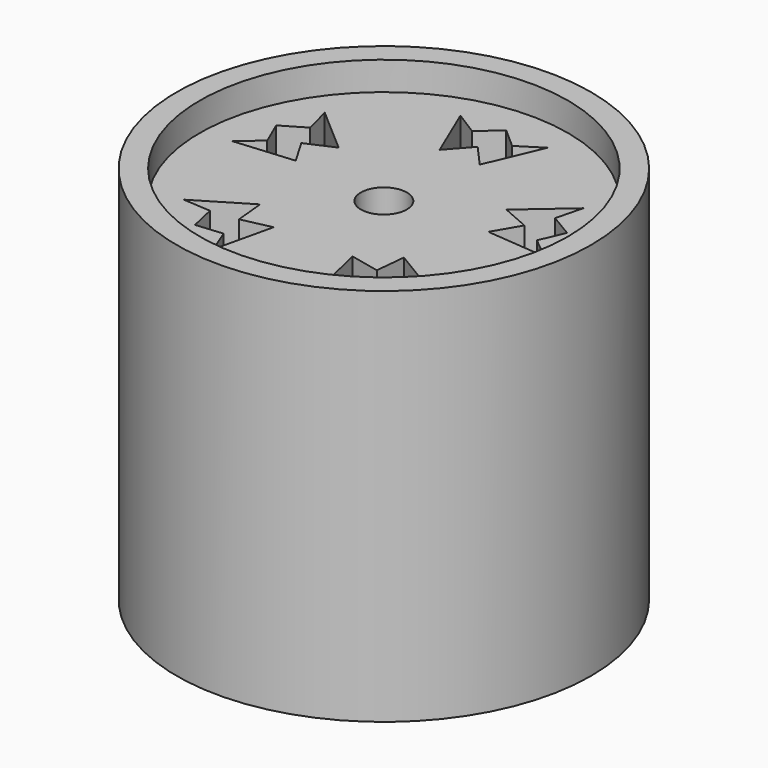
from build123d import *

# Parameters (mm, degrees)
F0_R     = 2
F0_R_2   = 0.25
F1_DEPTH = 1.75
F0_R_3   = 2.25
F2_DEPTH = 2.06


with BuildPart() as f1:
    # F0 (on Top) → F1 (new body, symmetric)
    with BuildSketch(Plane.XY):
        Circle(F0_R)
        Polygon((-0.976408, -1.34391), (-1.039955, -1.060915), (-1.340776, -1.04138), (-0.781074, -0.704595), (-0.748715, -1.030518), (-0.428745, -0.960577), (-0.576089, -1.596958), (-0.687626, -1.316897), align=None, mode=Mode.SUBTRACT)
        Polygon((0.976408, -1.34391), (0.687626, -1.316897), (0.576089, -1.596958), (0.428745, -0.960577), (0.748715, -1.030518), (0.781074, -0.704595), (1.340776, -1.04138), (1.039955, -1.060915), align=None, mode=Mode.SUBTRACT)
        Polygon((-1.579861, 0.513328), (-1.330354, 0.661215), (-1.404734, 0.953349), (-0.911475, 0.525113), (-1.211447, 0.393623), (-1.046053, 0.110926), (-1.696818, 0.054406), (-1.464932, 0.247028), align=None, mode=Mode.SUBTRACT)
        Circle(F0_R_2, mode=Mode.SUBTRACT)
        Polygon((1.579861, 0.513328), (1.464932, 0.247028), (1.696818, 0.054406), (1.046053, 0.110926), (1.211447, 0.393623), (0.911475, 0.525113), (1.404734, 0.953349), (1.330354, 0.661215), align=None, mode=Mode.SUBTRACT)
        Polygon((-0.217751, 1.029133), (-0.472603, 1.630582), (-0.217751, 1.469569), (0, 1.661165), (0.217751, 1.469569), (0.472603, 1.630582), (0.217751, 1.029133), (0, 1.27379), align=None, mode=Mode.SUBTRACT)
    extrude(amount=F1_DEPTH, both=True)

    # F0 (on Top) → F2 (join, symmetric)
    with BuildSketch(Plane.XY):
        Circle(F0_R_3)
        Circle(F0_R, mode=Mode.SUBTRACT)
    extrude(amount=F2_DEPTH, both=True)


solid = f1.part
